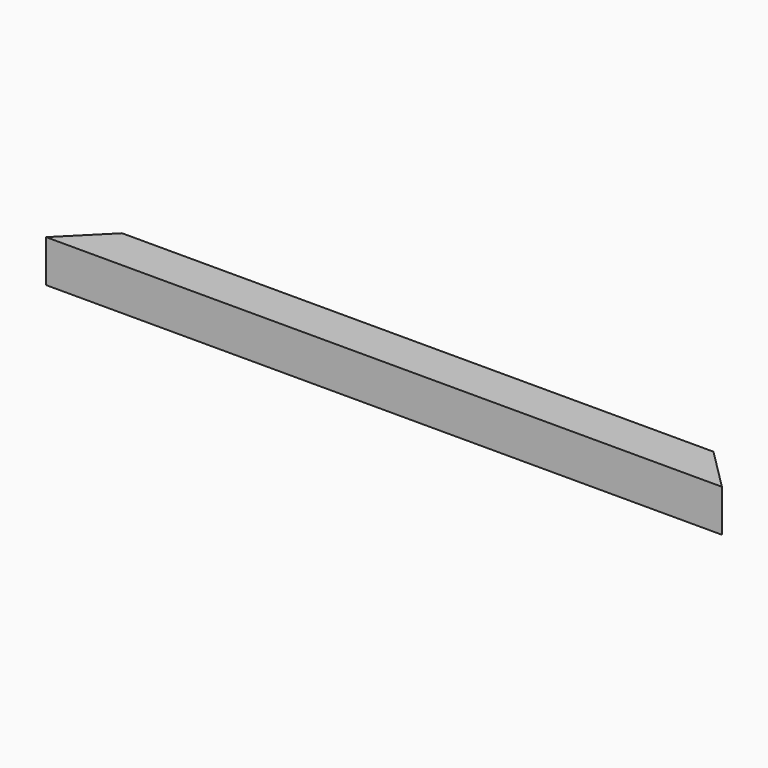
from build123d import *

# Parameters (mm, degrees)
F0_W     = 38.1
F0_H     = 38.1
F1_DEPTH = 609.6
F3_DEPTH = 38.1


with BuildPart() as f1:
    # F0 (on Right) → F1 (new body)
    with BuildSketch(Plane.YZ):
        with Locations((19.05, 19.05)):
            Rectangle(F0_W, F0_H)
    extrude(amount=F1_DEPTH)

    # F2 (on face) → F3 (cut)
    with BuildSketch(Plane.XY.offset(38.1)):
        Polygon((0, 38.1), (0, 0), (38.1, 38.1), align=None)
        Polygon((571.5, 38.1), (609.6, 0), (609.6, 38.1), align=None)
    extrude(amount=-F3_DEPTH, mode=Mode.SUBTRACT)


solid = f1.part
